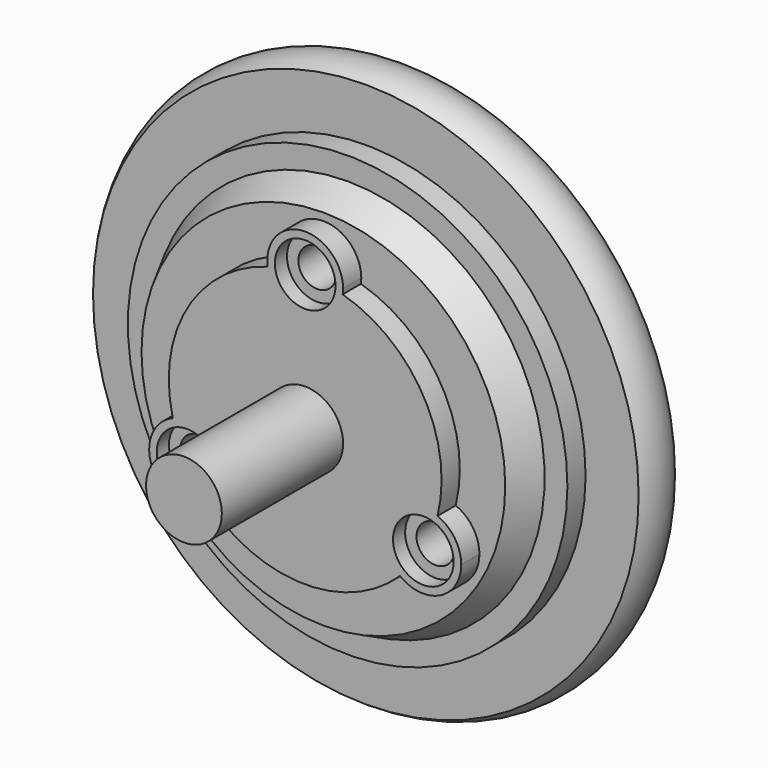
from build123d import *

# Parameters (mm, degrees)
F0_R      = 14.5
F1_DEPTH  = 6
F4_R      = 9
F5_DEPTH  = 1.5
F6_R      = 2.5
F7_DEPTH  = 10
F9_DEPTH  = 9
F10_R     = 13.5
F11_DEPTH = 5
F13_DEPTH = 13
F18_R     = 1.25
F19_DEPTH = 4.5
F16_R     = 2
F20_DEPTH = 1


with BuildPart() as f1:
    # F0 (on Front) → F1 (new body)
    with BuildSketch(Plane.XZ):
        Circle(F0_R)
    extrude(amount=F1_DEPTH)

    # F2 (on Right) → F3 (revolve)
    with BuildSketch(Plane.YZ):
        Polygon((-8, 0), (-6, 0), (-6, 13), (-8, 12), align=None)
    revolve(axis=Axis((0, -7, 0), (0, -1, 0)))

    # F4 (on face) → F5 (join)
    with BuildSketch(Plane.XZ.offset(8)):
        Circle(F4_R)
    extrude(amount=F5_DEPTH)

    # F6 (on face) → F7 (join)
    with BuildSketch(Plane.XZ.offset(9.5)):
        Circle(F6_R)
    extrude(amount=F7_DEPTH)

    # F8 (on face) → F9 (join)
    with BuildSketch(Plane.XZ.offset(9.5)):
        with BuildLine():
            ThreePointArc((8.731410332, -2.1823092387), (7.6201953269, -2.0060648749), (6.5442286341, -2.3349364905))
            Line((6.5442286341, -2.3349364905), (7.7942286341, -4.5))
            ThreePointArc((7.7942286341, -4.5), (8.3436867406, -3.3738541128), (8.731410332, -2.1823092387))
        make_face()
        with BuildLine():
            ThreePointArc((8.731410332, -2.1823092387), (8.3436867406, -3.3738541128), (7.7942286341, -4.5))
            ThreePointArc((7.7942286341, -4.5), (7.0936867406, -5.5389176222), (6.2556404057, -6.4704685391))
            ThreePointArc((6.2556404057, -6.4704685391), (8.8904789314, -6.7468278273), (10.2942286341, -4.5))
            ThreePointArc((10.2942286341, -4.5), (9.8670231541, -3.1023151723), (8.731410332, -2.1823092387))
        make_face()
        with BuildLine():
            ThreePointArc((6.2556404057, -6.4704685391), (7.0936867406, -5.5389176222), (7.7942286341, -4.5))
            Line((7.7942286341, -4.5), (5.2942286341, -4.5))
            ThreePointArc((5.2942286341, -4.5), (5.5474008068, -5.5962502974), (6.2556404057, -6.4704685391))
        make_face()
        with BuildLine():
            Line((7.7942286341, -4.5), (6.5442286341, -2.3349364905))
            ThreePointArc((6.5442286341, -2.3349364905), (5.6291651246, -3.25), (5.2942286341, -4.5))
            Line((5.2942286341, -4.5), (7.7942286341, -4.5))
        make_face()
        with BuildLine():
            ThreePointArc((-5.2942286341, -4.5), (-5.6291651246, -3.25), (-6.5442286341, -2.3349364905))
            Line((-6.5442286341, -2.3349364905), (-7.7942286341, -4.5))
            Line((-7.7942286341, -4.5), (-5.2942286341, -4.5))
        make_face()
        with BuildLine():
            Line((-7.7942286341, -4.5), (-6.5442286341, -2.3349364905))
            ThreePointArc((-6.5442286341, -2.3349364905), (-7.6201953269, -2.0060648749), (-8.731410332, -2.1823092387))
            ThreePointArc((-8.731410332, -2.1823092387), (-8.3436867406, -3.3738541128), (-7.7942286341, -4.5))
        make_face()
        with BuildLine():
            ThreePointArc((-7.7942286341, -4.5), (-8.3436867406, -3.3738541128), (-8.731410332, -2.1823092387))
            ThreePointArc((-8.731410332, -2.1823092387), (-9.9592921435, -5.75), (-6.2556404057, -6.4704685391))
            ThreePointArc((-6.2556404057, -6.4704685391), (-7.0936867406, -5.5389176222), (-7.7942286341, -4.5))
        make_face()
        with BuildLine():
            Line((-5.2942286341, -4.5), (-7.7942286341, -4.5))
            ThreePointArc((-7.7942286341, -4.5), (-7.0936867406, -5.5389176222), (-6.2556404057, -6.4704685391))
            ThreePointArc((-6.2556404057, -6.4704685391), (-5.5474008068, -5.5962502974), (-5.2942286341, -4.5))
        make_face()
        with BuildLine():
            Line((-1.25, 6.8349364905), (0, 9))
            ThreePointArc((0, 9), (-1.25, 8.912771735), (-2.4757699264, 8.6527777778))
            ThreePointArc((-2.4757699264, 8.6527777778), (-2.0727945201, 7.6023151723), (-1.25, 6.8349364905))
        make_face()
        with BuildLine():
            Line((1.25, 6.8349364905), (0, 9))
            Line((0, 9), (-1.25, 6.8349364905))
            ThreePointArc((-1.25, 6.8349364905), (0, 6.5), (1.25, 6.8349364905))
        make_face()
        with BuildLine():
            ThreePointArc((2.4757699264, 8.6527777778), (1.25, 8.912771735), (0, 9))
            Line((0, 9), (1.25, 6.8349364905))
            ThreePointArc((1.25, 6.8349364905), (2.0727945201, 7.6023151723), (2.4757699264, 8.6527777778))
        make_face()
        with BuildLine():
            ThreePointArc((-2.4757699264, 8.6527777778), (-1.25, 8.912771735), (0, 9))
            ThreePointArc((0, 9), (1.25, 8.912771735), (2.4757699264, 8.6527777778))
            ThreePointArc((2.4757699264, 8.6527777778), (2.4939351251, 8.8259666928), (2.5, 9))
            ThreePointArc((2.5, 9), (-0.1740333072, 11.4939351251), (-2.4757699264, 8.6527777778))
        make_face()
    extrude(amount=-F9_DEPTH)

    # F10 (on face) → F11 (cut)
    with BuildSketch(Plane(origin=(0, 0, 0), x_dir=(-1, 0, 0), z_dir=(0, 1, 0))):
        Circle(F10_R)
    extrude(amount=-F11_DEPTH, mode=Mode.SUBTRACT)

    # F12 (on face) → F13 (cut)
    with BuildSketch(Plane(origin=(0, -5, 0), x_dir=(-1, 0, 0), z_dir=(0, 1, 0))):
        Polygon((1.4722431864, 0.85), (0, 1.7), (-1.4722431864, 0.85), (-1.4722431864, -0.85), (0, -1.7), (1.4722431864, -0.85), align=None)
    extrude(amount=-F13_DEPTH, mode=Mode.SUBTRACT)

    # F18 (on face) → F19 (cut)
    with BuildSketch(Plane(origin=(0, -5, 0), x_dir=(-1, 0, 0), z_dir=(0, 1, 0))):
        with Locations((7.7942286341, -4.5)):
            Circle(F18_R)
        with Locations((0, 9)):
            Circle(F18_R)
        with Locations((-7.7942286341, -4.5)):
            Circle(F18_R)
    extrude(amount=-F19_DEPTH, mode=Mode.SUBTRACT)

    # F16 (on face) → F20 (cut)
    with BuildSketch(Plane.XZ.offset(9.5)):
        with Locations((-7.7942286341, -4.5)):
            Circle(F16_R)
        with Locations((7.7942286341, -4.5)):
            Circle(F16_R)
        with Locations((0, 9)):
            Circle(F16_R)
    extrude(amount=-F20_DEPTH, mode=Mode.SUBTRACT)


with BuildPart() as f15:
    # F14 (on Top) → F15 (revolve)
    with BuildSketch(Plane.XY):
        with BuildLine():
            Line((14.5, -1.5), (14.5, -3))
            Line((14.5, -3), (14.5, -4.5))
            Line((14.5, -4.5), (18, -4.5))
            ThreePointArc((18, -4.5), (18.5, -3), (18, -1.5))
            Line((18, -1.5), (14.5, -1.5))
        make_face()
    revolve(axis=Axis((0, -3, 0), (0, -1, 0)))


solid = Compound([f1.part, f15.part])
